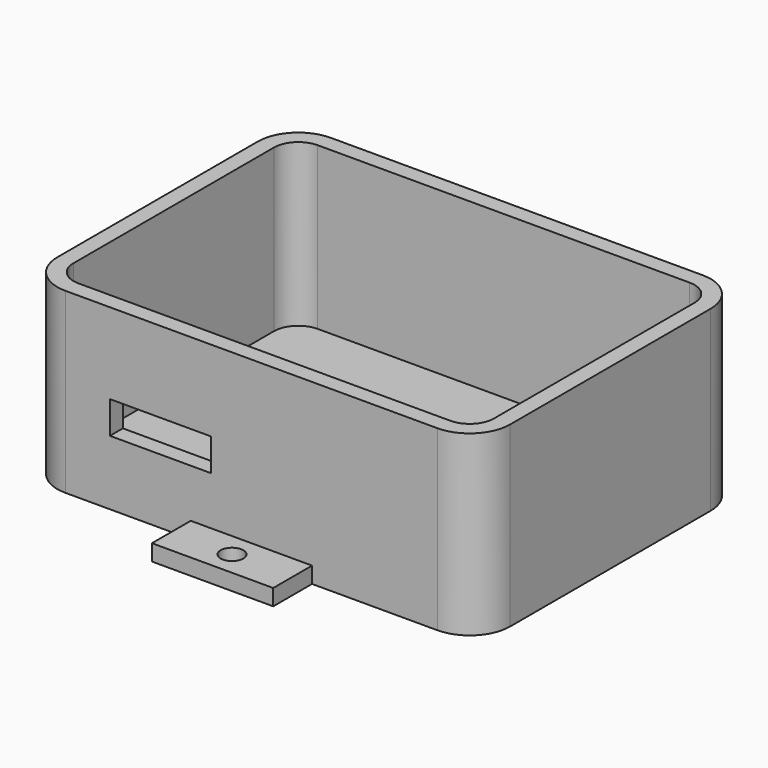
from build123d import *

# Parameters (mm, degrees)
PAD_DEPTH       = 20
THICKNESS_T     = 2
SKETCH001_W     = 15
SKETCH001_H     = 2
PAD001_DEPTH    = 6
SKETCH002_R     = 1.4
POCKET_DEPTH    = 2.001
SKETCH003_W     = 15
SKETCH003_H     = 2
PAD002_DEPTH    = 6
SKETCH004_R     = 1.4
POCKET001_DEPTH = 22.001
SKETCH005_R     = 2.5
PAD003_DEPTH    = 7
SKETCH006_R     = 5
PAD004_DEPTH    = 5
SKETCH007_R     = 1.6
POCKET002_DEPTH = 22.001
SKETCH008_R     = 3.5
POCKET003_DEPTH = 2.8
SKETCH009_W     = 12.5
SKETCH009_H     = 4
POCKET004_DEPTH = 2


with BuildPart() as part:
    # Sketch → Pad (new body)
    with BuildSketch(Plane.XY):
        with BuildLine():
            Line((0, 37), (46, 37))
            ThreePointArc((49, 34), (48.1213203436, 36.1213203436), (46, 37))
            Line((49, 34), (49, 3))
            ThreePointArc((46, 0), (48.1213203436, 0.8786796564), (49, 3))
            Line((46, 0), (0, 0))
            ThreePointArc((-3, 3), (-2.1213203436, 0.8786796564), (0, 0))
            Line((-3, 3), (-3, 34))
            ThreePointArc((0, 37), (-2.1213203436, 36.1213203436), (-3, 34))
        make_face()
    extrude(amount=PAD_DEPTH)

    # Thickness
    thickness_openings = [part.faces().sort_by_distance(p)[0] for p in [
        (23, 18.5, 20),
    ]]
    offset(amount=THICKNESS_T, openings=thickness_openings, kind=Kind.INTERSECTION)

    # Sketch001 → Pad001 (new body)
    with BuildSketch(Plane(origin=(0, 39, 0), x_dir=(-1, 0, 0), z_dir=(0, 1, 0))):
        with Locations((-23, -1)):
            Rectangle(SKETCH001_W, SKETCH001_H)
    extrude(amount=PAD001_DEPTH)

    # Sketch002 → Pocket (cut, through all)
    with BuildSketch(Plane.XY):
        with Locations((23, 42)):
            Circle(SKETCH002_R)
    extrude(amount=-POCKET_DEPTH, mode=Mode.SUBTRACT)

    # Sketch003 → Pad002 (new body)
    with BuildSketch(Plane.XZ.offset(2)):
        with Locations((23, -1)):
            Rectangle(SKETCH003_W, SKETCH003_H)
    extrude(amount=PAD002_DEPTH)

    # Sketch004 → Pocket001 (cut, through all)
    with BuildSketch(Plane(origin=(0, 0, -2), x_dir=(1, 0, 0), z_dir=(0, 0, -1))):
        with Locations((23, 5)):
            Circle(SKETCH004_R)
    extrude(amount=-POCKET001_DEPTH, mode=Mode.SUBTRACT)

    # Sketch005 → Pad003 (new body)
    with BuildSketch(Plane(origin=(0, 0, -2), x_dir=(1, 0, 0), z_dir=(0, 0, -1))):
        with Locations((2, -18.5)):
            Circle(SKETCH005_R)
        with Locations((44, -18.5)):
            Circle(SKETCH005_R)
    extrude(amount=-PAD003_DEPTH)

    # Sketch006 → Pad004 (new body)
    with BuildSketch(Plane(origin=(0, 0, -2), x_dir=(1, 0, 0), z_dir=(0, 0, -1))):
        with Locations((2, -18.5)):
            Circle(SKETCH006_R)
        with Locations((44, -18.5)):
            Circle(SKETCH006_R)
    extrude(amount=-PAD004_DEPTH)

    # Sketch007 → Pocket002 (cut, through all)
    with BuildSketch(Plane(origin=(0, 0, -2), x_dir=(1, 0, 0), z_dir=(0, 0, -1))):
        with Locations((2, -18.5)):
            Circle(SKETCH007_R)
        with Locations((44, -18.5)):
            Circle(SKETCH007_R)
    extrude(amount=-POCKET002_DEPTH, mode=Mode.SUBTRACT)

    # Sketch008 → Pocket003 (cut)
    with BuildSketch(Plane(origin=(0, 0, -2), x_dir=(1, 0, 0), z_dir=(0, 0, -1))):
        with Locations((2, -18.5)):
            Circle(SKETCH008_R)
        with Locations((44, -18.5)):
            Circle(SKETCH008_R)
    extrude(amount=-POCKET003_DEPTH, mode=Mode.SUBTRACT)

    # Sketch009 → Pocket004 (cut)
    with BuildSketch(Plane.XZ.offset(2)):
        with Locations((11.75, 8)):
            Rectangle(SKETCH009_W, SKETCH009_H)
    extrude(amount=-POCKET004_DEPTH, mode=Mode.SUBTRACT)


solid = part.part
